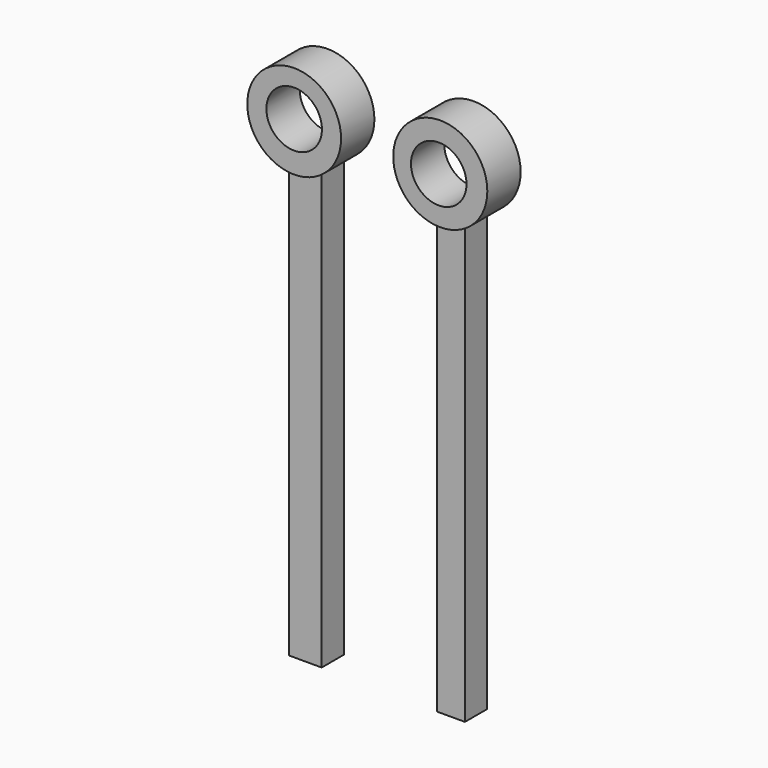
from build123d import *

# Parameters (mm, degrees)
F0_W     = 29.9609806389
F0_H     = 398.8869190216
F1_DEPTH = 25.4
F0_W_2   = 25.4818499088
F0_H_2   = 401.2034833431
F2_R     = 43.043289281
F3_DEPTH = 38.1
F2_R_2   = 42.8944025652
F5_D     = 50.8
F5_2_D   = 50.8


with BuildPart() as f1:
    # F0 (on Front) → F1 (new body)
    with BuildSketch(Plane.XZ):
        Rectangle(F0_W, F0_H)
    extrude(amount=F1_DEPTH)


with BuildPart() as f1b:
    # F0 (on Front) → F1, piece 2 (new body)
    with BuildSketch(Plane.XZ):
        with Locations((133.2776546478, 0)):
            Rectangle(F0_W_2, F0_H_2)
    extrude(amount=F1_DEPTH)


with BuildPart() as f3:
    # F2 (on Front) → F3 (new body)
    with BuildSketch(Plane.XZ):
        with Locations((133.6172372103, 241.8562173843)):
            Circle(F2_R)
    extrude(amount=F3_DEPTH)

    # F5 (through all)
    with Locations(Plane(origin=(0, 0, 0), x_dir=(1, 0, 0), z_dir=(0, 1, 0))):
        with Locations((0, -242.4655109644), (132.2387903929, -241.3244098425)):
            Hole(F5_D / 2)


with BuildPart() as f3b:
    # F2 (on Front) → F3, piece 2 (new body)
    with BuildSketch(Plane.XZ):
        with Locations((0, 240.6979352236)):
            Circle(F2_R_2)
    extrude(amount=F3_DEPTH)

    # F5#2 (through all)
    with Locations(Plane(origin=(0, 0, 0), x_dir=(1, 0, 0), z_dir=(0, 1, 0))):
        with Locations((0, -242.4655109644), (132.2387903929, -241.3244098425)):
            Hole(F5_2_D / 2)


solid = Compound([f1.part, f1b.part, f3.part, f3b.part])
